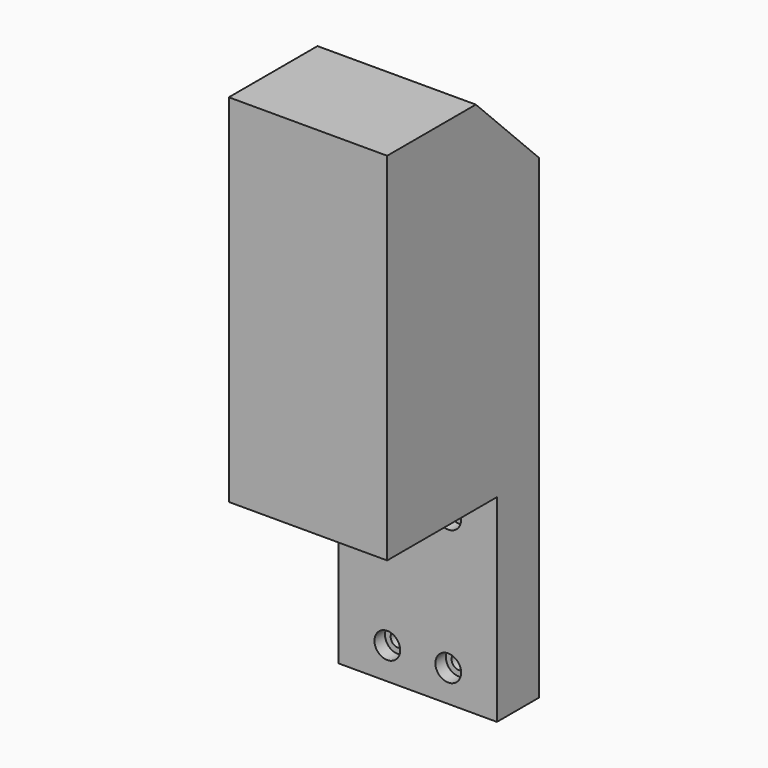
from build123d import *

# Parameters (mm, degrees)
F0_W           = 60
F0_H           = 210
F1_DEPTH       = 72
F2_W           = 52
F2_H           = 75
F3_DEPTH       = 60.001
F4_SIZE        = 30
F7_D           = 5.5
F7_CBORE_D     = 9.75
F7_CBORE_DEPTH = 5


with BuildPart() as f1:
    # F0 (on Front) → F1 (new body)
    with BuildSketch(Plane.XZ):
        Rectangle(F0_W, F0_H)
    extrude(amount=F1_DEPTH)

    # F2 (on face) → F3 (cut, through all)
    with BuildSketch(Plane.YZ.offset(30)):
        with Locations((-46, -67.5)):
            Rectangle(F2_W, F2_H)
    extrude(amount=-F3_DEPTH, mode=Mode.SUBTRACT)

    # F4
    f4_edges = [f1.edges().sort_by_distance(p)[0] for p in [
        (0, 0, 105),
    ]]
    chamfer(f4_edges, length=F4_SIZE)

    # F7 (through all)
    with Locations(Plane.XZ.offset(20)):
        with Locations((-11.5400338545, -42), (11.5400338545, -42), (-11.5400338545, -93), (11.5400338545, -93)):
            CounterBoreHole(F7_D / 2, F7_CBORE_D / 2, F7_CBORE_DEPTH)


solid = f1.part
